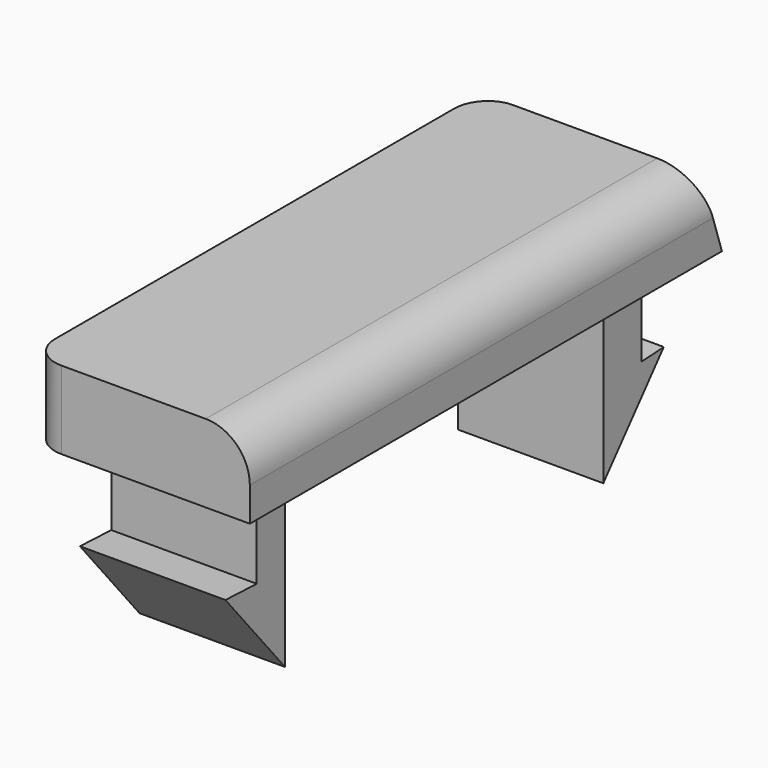
from build123d import *

# Parameters (mm, degrees)
F1_DEPTH = 12.7
F2_DEPTH = 8.382
F3_R     = 3.679261
F4_R     = 5.08


with BuildPart() as f1:
    # F0 (on Right) → F1 (new body, symmetric)
    with BuildSketch(Plane.YZ):
        Polygon((30.308623, 31.392861), (-34.372479, 31.392861), (-34.724846, 31.392861), (-34.724846, 22.405792), (-28.332443, 22.405792), (-24.258062, 22.405792), (-20.550046, 22.405792), (-9.070974, 22.405792), (1.610943, 22.405792), (21.591455, 22.405792), (27.077377, 22.405792), (33.283076, 22.405792), align=None)
    extrude(amount=F1_DEPTH, both=True)

    # F0 (on Right) → F2 (join, symmetric)
    with BuildSketch(Plane.YZ):
        Polygon((30.308623, 31.392861), (-34.372479, 31.392861), (-34.724846, 31.392861), (-34.724846, 22.405792), (-28.332443, 22.405792), (-24.258062, 22.405792), (-20.550046, 22.405792), (-9.070974, 22.405792), (1.610943, 22.405792), (21.591455, 22.405792), (27.077377, 22.405792), (33.283076, 22.405792), align=None)
        Polygon((27.077377, 12.309055), (27.077377, 22.405792), (21.591455, 22.405792), (21.591455, 2.212318), (30.308623, 12.499893), align=None)
        Polygon((-24.258062, 22.405792), (-28.332443, 22.405792), (-28.332443, 12.309055), (-32.845773, 12.499893), (-24.258062, 2.212318), align=None)
    extrude(amount=F2_DEPTH, both=True)

    # F3
    f3_edges = [f1.edges().sort_by_distance(p)[0] for p in [
        (-12.7, -34.724846, 26.899327),
        (-12.7, 31.795849, 26.899327),
    ]]
    fillet(f3_edges, radius=F3_R)

    # F4
    f4_edges = [f1.edges().sort_by_distance(p)[0] for p in [
        (12.7, -2.208112, 31.392861),
    ]]
    fillet(f4_edges, radius=F4_R)


solid = f1.part
